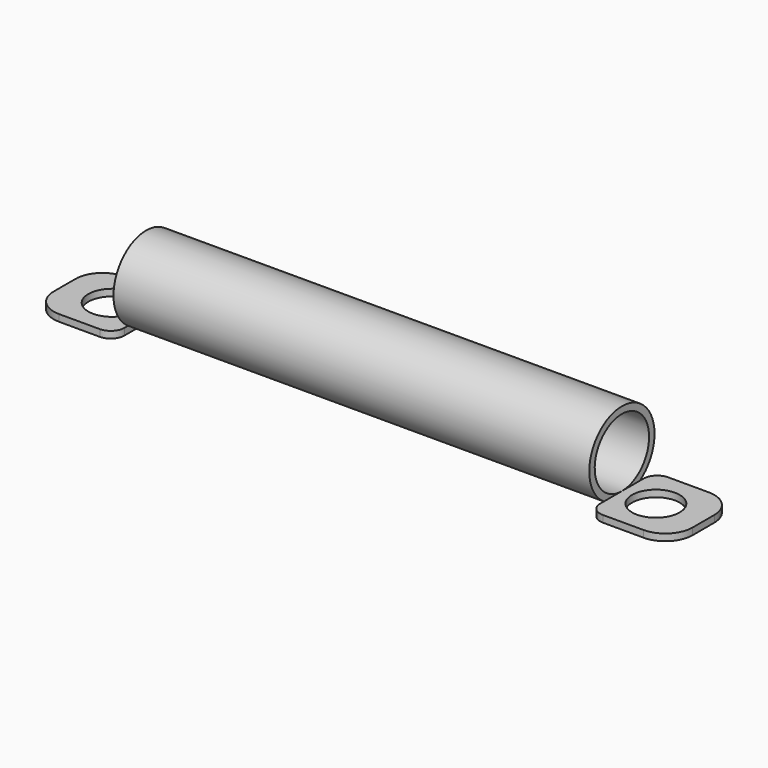
from build123d import *

# Parameters (mm, degrees)
F0_R     = 3
F0_R_2   = 2.5
F1_DEPTH = 17.5
F3_W     = 6
F3_H     = 6
F4_DEPTH = 0.5
F6_R     = 2
F7_R     = 1
F5_R     = 1.75
F8_DEPTH = 25


with BuildPart() as f1:
    # F0 (on Right) → F1 (new body, symmetric)
    with BuildSketch(Plane.YZ):
        Circle(F0_R)
        Circle(F0_R_2, mode=Mode.SUBTRACT)
    extrude(amount=F1_DEPTH, both=True)

    # F3 (on offset) → F4 (join)
    with BuildSketch(Plane.XY.offset(-3)):
        with Locations((20.5, 0)):
            Rectangle(F3_W, F3_H)
        with Locations((-20.5, 0)):
            Rectangle(F3_W, F3_H)
    extrude(amount=F4_DEPTH)

    # F6
    f6_edges = [f1.edges().sort_by_distance(p)[0] for p in [
        (23.5, 3, -2.75),
        (23.5, -3, -2.75),
        (-23.5, -3, -2.75),
        (-23.5, 3, -2.75),
    ]]
    fillet(f6_edges, radius=F6_R)

    # F7
    f7_edges = [f1.edges().sort_by_distance(p)[0] for p in [
        (17.5, -3, -2.75),
        (17.5, 3, -2.75),
        (-17.5, -3, -2.75),
        (-17.5, 3, -2.75),
    ]]
    fillet(f7_edges, radius=F7_R)

    # F5 (on face) → F8 (cut)
    with BuildSketch(Plane.XY.offset(-2.5)):
        with Locations((20, 0)):
            Circle(F5_R)
        with Locations((-20, 0)):
            Circle(F5_R)
    extrude(amount=-F8_DEPTH, mode=Mode.SUBTRACT)


solid = f1.part
